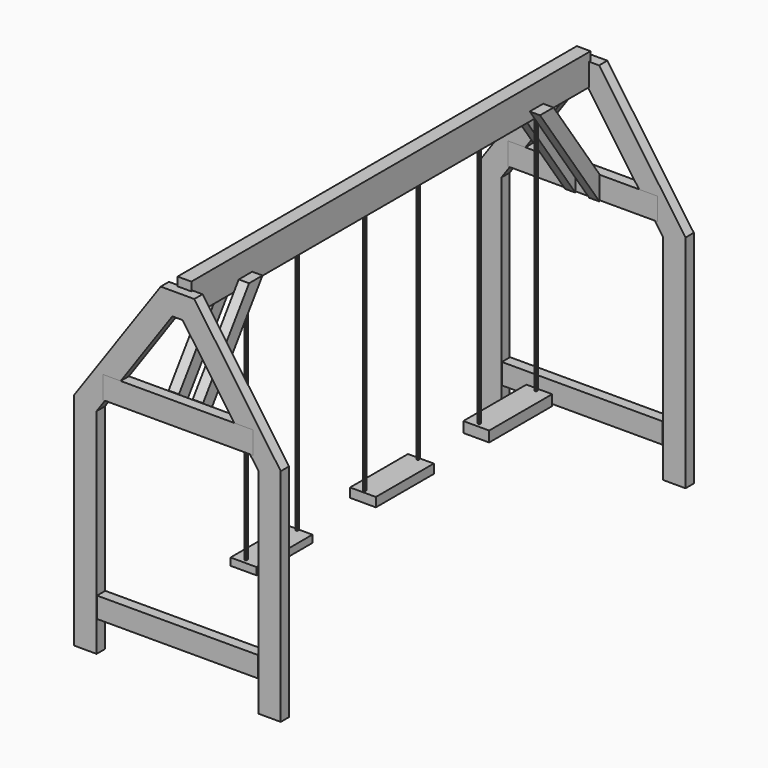
from build123d import *

# Parameters (mm, degrees)
F1_DEPTH  = 60
F4_DEPTH  = 60
F6_START  = 50
F5_W      = 80
F5_H      = 180
F6_DEPTH  = 2900
F7_W      = 870.6667721272
F7_H      = 130.4668188095
F8_DEPTH  = 60
F7_W_2    = 934.5689117908
F7_H_2    = 119.8165267706
F9_W      = 870.6667721272
F9_H      = 130.4668188095
F10_DEPTH = 60
F9_W_2    = 934.5689117908
F9_H_2    = 119.8165267706
F12_DEPTH = 60
F14_DEPTH = 60
F15_W     = 407.454252243
F15_H     = 42.6014661789
F16_DEPTH = 75
F15_W_2   = 420.6892251968
F15_H_2   = 53.2518029213
F15_W_3   = 457.9654037952
F15_H_3   = 61.2396001816
F17_W     = 13.3130550385
F17_H     = 1432.4731528759
F18_DEPTH = 5
F17_H_2   = 1429.8106133938
F17_W_2   = 13.3129358292
F17_H_3   = 1432.4730932713
F17_H_4   = 1429.8104941845
F17_H_5   = 1427.1478950977
F17_W_3   = 13.3130252361


with BuildPart() as f1:
    # F0 (on Front) → F1 (new body)
    with BuildSketch(Plane.XZ):
        Polygon((0, 2000), (-97.6737165717, 2000), (-600, 1282.6037195877), (-600, 0), (-470, 0), (-470, 1241.6148770335), (-30, 1870), (0, 1870), (30, 1870), (470, 1241.6148770335), (470, 0), (600, 0), (600, 1282.6037195877), (97.6737165717, 2000), align=None)
    extrude(amount=F1_DEPTH)


with BuildPart() as f4:
    # F3 (on offset) → F4 (new body)
    with BuildSketch(Plane.XZ.offset(3000)):
        Polygon((-470, 1241.6148770335), (-30, 1870), (30, 1870), (470, 1241.6148770335), (470, 0), (600, 0), (600, 1282.6037195877), (97.6737165717, 2000), (-97.6737165717, 2000), (-600, 1282.6037195877), (-600, 0), (-470, 0), align=None)
    extrude(amount=-F4_DEPTH)


with BuildPart() as f6:
    # F5 (on Front) → F6 (new body)
    with BuildSketch(Plane.XZ.offset(F6_START)):
        with Locations((0.3702357411, 1960)):
            Rectangle(F5_W, F5_H)
    extrude(amount=F6_DEPTH)


with BuildPart() as f8:
    # F7 (on offset) → F8 (new body)
    with BuildSketch(Plane.XZ.offset(3000)):
        with Locations((2.6626139879, 1376.2380480766)):
            Rectangle(F7_W, F7_H)
    extrude(amount=-F8_DEPTH)


with BuildPart() as f8b:
    # F7 (on offset) → F8, piece 2 (new body)
    with BuildSketch(Plane.XZ.offset(3000)):
        with Locations((1.49012e-05, 239.3123582006)):
            Rectangle(F7_W_2, F7_H_2)
    extrude(amount=-F8_DEPTH)


with BuildPart() as f10:
    # F9 (on Front) → F10 (new body)
    with BuildSketch(Plane.XZ):
        with Locations((2.6626139879, 1376.2380480766)):
            Rectangle(F9_W, F9_H)
    extrude(amount=F10_DEPTH)


with BuildPart() as f10b:
    # F9 (on Front) → F10, piece 2 (new body)
    with BuildSketch(Plane.XZ):
        with Locations((1.49012e-05, 239.3123582006)):
            Rectangle(F9_W_2, F9_H_2)
    extrude(amount=F10_DEPTH)


with BuildPart() as f12:
    # F11 (on face) → F12 (new body)
    with BuildSketch(Plane.YZ.offset(40.3702357411)):
        Polygon((-2605.6609946425, 1921.1378563019), (-2940, 1443.6522722244), (-2940, 1304.1765285747), (-2507.9990275416, 1921.1378563019), align=None)
    extrude(amount=F12_DEPTH)


with BuildPart() as f12b:
    # F11 (on face) → F12, piece 2 (new body)
    with BuildSketch(Plane.YZ.offset(40.3702357411)):
        Polygon((-394.3390053575, 1921.1378563019), (-492.0009724584, 1921.1378563019), (-60, 1304.1765285747), (-60, 1443.6522722244), align=None)
    extrude(amount=F12_DEPTH)


with BuildPart() as f14:
    # F13 (on face) → F14 (new body)
    with BuildSketch(Plane(origin=(-39.6297642589, 0, 0), x_dir=(0, -1, 0), z_dir=(-1, 0, 0))):
        Polygon((2507.9990275416, 1921.1378563019), (2940, 1304.1765285747), (2940, 1443.6522722244), (2605.6609946425, 1921.1378563019), align=None)
    extrude(amount=F14_DEPTH)


with BuildPart() as f14b:
    # F13 (on face) → F14, piece 2 (new body)
    with BuildSketch(Plane(origin=(-39.6297642589, 0, 0), x_dir=(0, -1, 0), z_dir=(-1, 0, 0))):
        Polygon((60, 1443.6522722244), (60, 1304.1765285747), (492.0009724584, 1921.1378563019), (394.3390053575, 1921.1378563019), align=None)
    extrude(amount=F14_DEPTH)


with BuildPart() as f16:
    # F15 (on Right) → F16 (new body, symmetric)
    with BuildSketch(Plane.YZ):
        with Locations((-2317.3087835312, 405.7241678238)):
            Rectangle(F15_W, F15_H)
    extrude(amount=F16_DEPTH, both=True)


with BuildPart() as f16b:
    # F15 (on Right) → F16, piece 2 (new body, symmetric)
    with BuildSketch(Plane.YZ):
        with Locations((-1442.5305724144, 405.7241678238)):
            Rectangle(F15_W_2, F15_H_2)
    extrude(amount=F16_DEPTH, both=True)


with BuildPart() as f16c:
    # F15 (on Right) → F16, piece 3 (new body, symmetric)
    with BuildSketch(Plane.YZ):
        with Locations((-601.1522859335, 407.0554673672)):
            Rectangle(F15_W_3, F15_H_3)
    extrude(amount=F16_DEPTH, both=True)


with BuildPart() as f18:
    # F17 (on Right) → F18 (new body, symmetric)
    with BuildSketch(Plane.YZ):
        with Locations((-2500.9099245071, 1148.5866457224)):
            Rectangle(F17_W, F17_H)
    extrude(amount=F18_DEPTH, both=True)


with BuildPart() as f18b:
    # F17 (on Right) → F18, piece 2 (new body, symmetric)
    with BuildSketch(Plane.YZ):
        with Locations((-2130.8099031448, 1147.2553759813)):
            Rectangle(F17_W, F17_H_2)
    extrude(amount=F18_DEPTH, both=True)


with BuildPart() as f18c:
    # F17 (on Right) → F18, piece 3 (new body, symmetric)
    with BuildSketch(Plane.YZ):
        with Locations((-1638.2308602333, 1151.2492150068)):
            Rectangle(F17_W_2, F17_H_3)
    extrude(amount=F18_DEPTH, both=True)


with BuildPart() as f18d:
    # F17 (on Right) → F18, piece 4 (new body, symmetric)
    with BuildSketch(Plane.YZ):
        with Locations((-1252.1554231644, 1152.5805145502)):
            Rectangle(F17_W, F17_H_4)
    extrude(amount=F18_DEPTH, both=True)


with BuildPart() as f18e:
    # F17 (on Right) → F18, piece 5 (new body, symmetric)
    with BuildSketch(Plane.YZ):
        with Locations((-807.5029850006, 1153.9118140936)):
            Rectangle(F17_W, F17_H_5)
    extrude(amount=F18_DEPTH, both=True)


with BuildPart() as f18f:
    # F17 (on Right) → F18, piece 6 (new body, symmetric)
    with BuildSketch(Plane.YZ):
        with Locations((-394.8016017675, 1153.9118140936)):
            Rectangle(F17_W_3, F17_H_5)
    extrude(amount=F18_DEPTH, both=True)


solid = Compound([f1.part, f4.part, f6.part, f8.part, f8b.part, f10.part, f10b.part, f12.part, f12b.part, f14.part, f14b.part, f16.part, f16b.part, f16c.part, f18.part, f18b.part, f18c.part, f18d.part, f18e.part, f18f.part])
